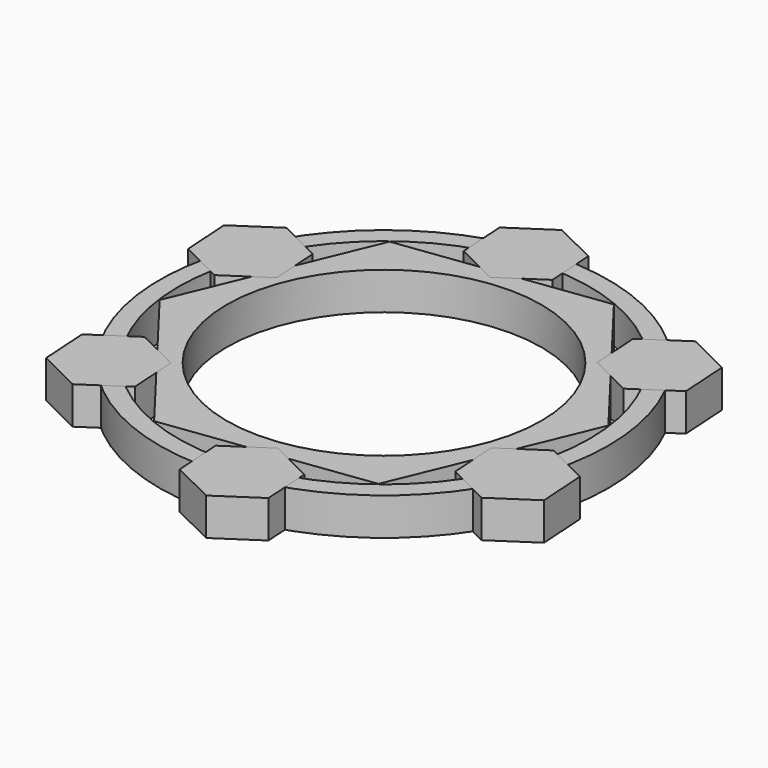
from build123d import *

# Parameters (mm, degrees)
F0_R     = 60
F1_DEPTH = 10
F2_R     = 55
F3_DEPTH = 10
F5_DEPTH = 10
F6_R     = 42.058051
F7_DEPTH = 10
F9_DEPTH = 10


with BuildPart() as f1:
    # F0 (on Top) → F1 (new body)
    with BuildSketch(Plane.XY):
        Circle(F0_R)
    extrude(amount=F1_DEPTH)

    # F2 (on Top) → F3 (cut)
    with BuildSketch(Plane.XY):
        Circle(F2_R)
    extrude(amount=F3_DEPTH, mode=Mode.SUBTRACT)


with BuildPart() as f5:
    # F4 (on Top) → F5 (new body)
    with BuildSketch(Plane.XY):
        Polygon((54.307408, 7.099115), (21.00569, 50.581153), (-33.301718, 43.482038), (-54.307408, -7.099115), (-21.00569, -50.581153), (33.301718, -43.482038), align=None)
    extrude(amount=F5_DEPTH)

    # F6 (on Top) → F7 (cut)
    with BuildSketch(Plane.XY):
        Circle(F6_R)
    extrude(amount=F7_DEPTH, mode=Mode.SUBTRACT)


with BuildPart() as f9:
    # F8 (on Top) → F9 (new body)
    with BuildSketch(Plane.XY):
        Polygon((-54.047268, 34.914856), (-64.930424, 27.682286), (-64.108413, 14.640911), (-52.403246, 8.832106), (-41.520089, 16.064676), (-42.3421, 29.106051), align=None)
        Polygon((-57.260786, -29.348879), (-56.438775, -42.390254), (-44.733607, -48.199059), (-33.850451, -40.966489), (-34.672462, -27.925114), (-46.377629, -22.116309), align=None)
        Polygon((-3.213518, -64.263735), (8.491649, -70.07254), (19.374806, -62.83997), (18.552795, -49.798595), (6.847627, -43.98979), (-4.035529, -51.22236), align=None)
        Polygon((54.047268, -34.914856), (64.930424, -27.682286), (64.108413, -14.640911), (52.403246, -8.832106), (41.520089, -16.064676), (42.3421, -29.106051), align=None)
        Polygon((57.260786, 29.348879), (56.438775, 42.390254), (44.733607, 48.199059), (33.850451, 40.966489), (34.672462, 27.925114), (46.377629, 22.116309), align=None)
        Polygon((3.213518, 64.263735), (-8.491649, 70.07254), (-19.374806, 62.83997), (-18.552795, 49.798595), (-6.847627, 43.98979), (4.035529, 51.22236), align=None)
    extrude(amount=F9_DEPTH)


solid = Compound([f1.part, f5.part, f9.part])
